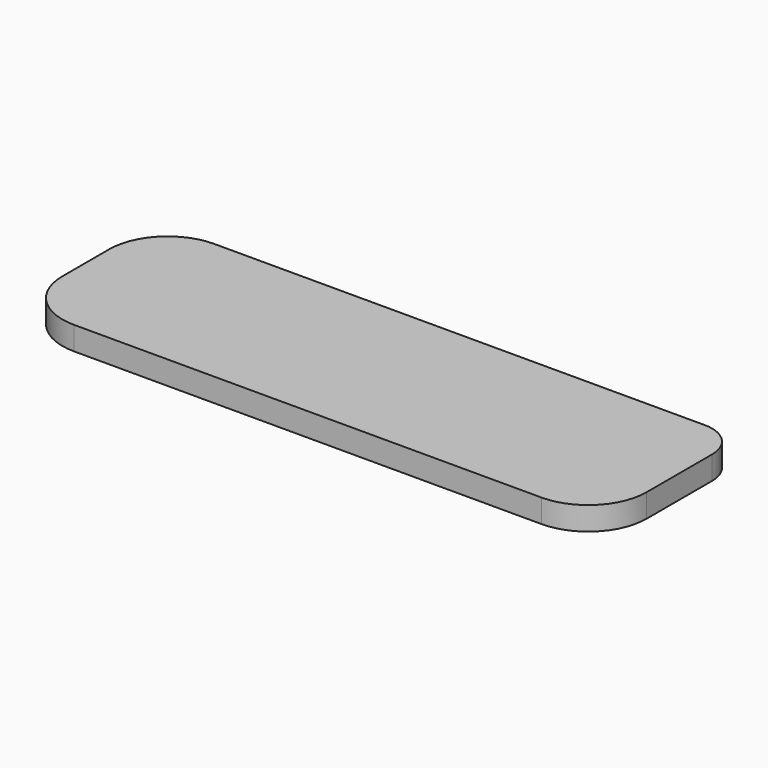
from build123d import *

# Parameters (mm, degrees)
F0_W     = 50
F0_H     = 15
F1_DEPTH = 2
F2_R     = 3
F3_R     = 5
F4_R     = 5


with BuildPart() as f1:
    # F0 (on Top) → F1 (new body)
    with BuildSketch(Plane.XY):
        with Locations((-25, 7.5)):
            Rectangle(F0_W, F0_H)
    extrude(amount=F1_DEPTH)

    # F2
    f2_edges = [f1.edges().sort_by_distance(p)[0] for p in [
        (0, 15, 1),
    ]]
    fillet(f2_edges, radius=F2_R)

    # F3
    f3_edges = [f1.edges().sort_by_distance(p)[0] for p in [
        (0, 0, 1),
    ]]
    fillet(f3_edges, radius=F3_R)

    # F4
    f4_edges = [f1.edges().sort_by_distance(p)[0] for p in [
        (-50, 15, 1),
        (-50, 0, 1),
    ]]
    fillet(f4_edges, radius=F4_R)


solid = f1.part
